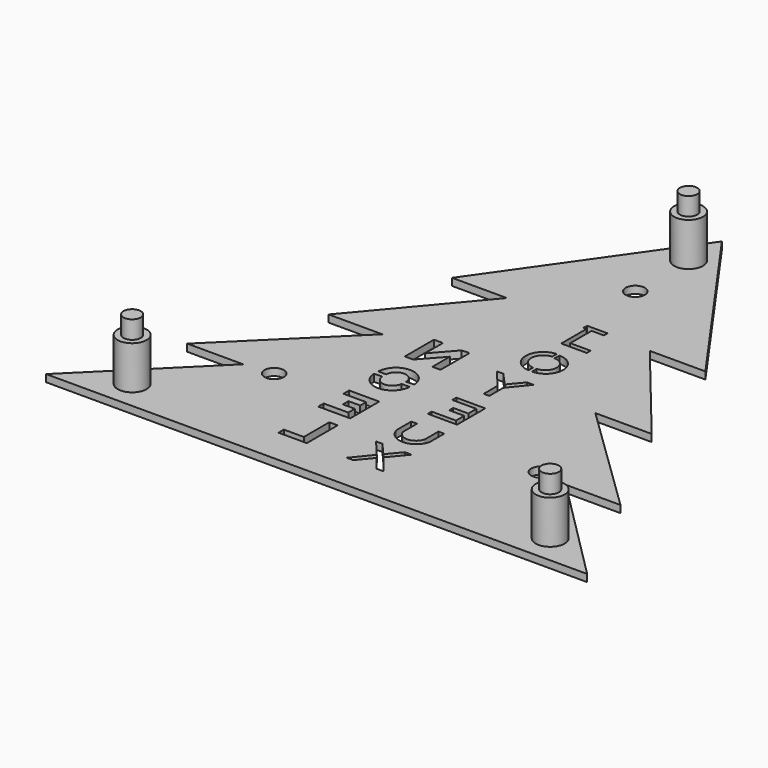
from build123d import *

# Parameters (mm, degrees)
CYLINDER006_R          = 2.4
CYLINDER006_DEPTH      = 7
CYLINDER004_R          = 4
CYLINDER004_DEPTH      = 12
CYLINDER007_R          = 2.4
CYLINDER007_DEPTH      = 7
CYLINDER005_R          = 4
CYLINDER005_DEPTH      = 12
CYLINDER_R             = 2.67
CYLINDER_DEPTH         = 2
CYLINDER001_R          = 2.67
CYLINDER001_DEPTH      = 2
CYLINDER002_R          = 2.67
CYLINDER002_DEPTH      = 2
PAD005_DEPTH           = 2
PAD006_DEPTH           = 2
PAD007_DEPTH           = 2
PAD008_DEPTH           = 2
PAD009_DEPTH           = 2
PAD010_DEPTH           = 2
PAD011_DEPTH           = 2
PAD013_DEPTH           = 2
PAD014_DEPTH           = 2
PAD015_DEPTH           = 2
PAD001_DEPTH           = 2
PAD004_DEPTH           = 2
PAD_DEPTH              = 2
CUT014_PLACEMENT_ANGLE = 180
CYLINDER003_R          = 4
CYLINDER003_DEPTH      = 12
CYLINDER008_R          = 2.4
CYLINDER008_DEPTH      = 7


with BuildPart() as cylindre006:
    # Cylinder006 → Cylinder006 (new body)
    with BuildSketch(Plane.XY.offset(10)):
        Circle(CYLINDER006_R)
    extrude(amount=CYLINDER006_DEPTH)


with BuildPart() as obj1:
    # Cylinder004 → Cylinder004 (new body)
    with BuildSketch(Plane.XY):
        Circle(CYLINDER004_R)
    extrude(amount=CYLINDER004_DEPTH)

    # Fusion001: union Cylindre006
    add(cylindre006.part)


with BuildPart() as obj1_1:
    # Fusion001 placement: moved
    add(obj1.part.moved(Location((58, -122, 0))))


with BuildPart() as cylindre007:
    # Cylinder007 → Cylinder007 (new body)
    with BuildSketch(Plane.XY.offset(10)):
        Circle(CYLINDER007_R)
    extrude(amount=CYLINDER007_DEPTH)


with BuildPart() as obj2:
    # Cylinder005 → Cylinder005 (new body)
    with BuildSketch(Plane.XY):
        Circle(CYLINDER005_R)
    extrude(amount=CYLINDER005_DEPTH)

    # Fusion002: union Cylindre007
    add(cylindre007.part)


with BuildPart() as obj2_1:
    # Fusion002 placement: moved
    add(obj2.part.moved(Location((0, -1.5, 0))))


with BuildPart() as obj3:
    # Cylinder → Cylinder (new body)
    with BuildSketch(Plane(origin=(0, -20, 0), x_dir=(1, 0, 0), z_dir=(0, 0, 1))):
        Circle(CYLINDER_R)
    extrude(amount=CYLINDER_DEPTH)


with BuildPart() as obj4:
    # Cylinder001 → Cylinder001 (new body)
    with BuildSketch(Plane(origin=(-37, -99, 0), x_dir=(1, 0, 0), z_dir=(0, 0, 1))):
        Circle(CYLINDER001_R)
    extrude(amount=CYLINDER001_DEPTH)


with BuildPart() as obj5:
    # Cylinder002 → Cylinder002 (new body)
    with BuildSketch(Plane(origin=(37, -99, 0), x_dir=(1, 0, 0), z_dir=(0, 0, 1))):
        Circle(CYLINDER002_R)
    extrude(amount=CYLINDER002_DEPTH)


with BuildPart() as pad005:
    # Sketch003 → Pad005 (new body)
    with BuildSketch(Plane(origin=(11, -73, 0), x_dir=(1, 0, 0), z_dir=(0, 0, 1))):
        with BuildLine():
            ThreePointArc((-16.037963, 9.653341), (-11.364469, 14.54891), (-16.07126, 19.412473))
            Line((-16.07126, 19.412473), (-16.07126, 17.849285))
            ThreePointArc((-16.099219, 11.213839), (-12.926154, 14.518251), (-16.07126, 17.849285))
            Line((-16.099219, 11.213839), (-16.037963, 9.653341))
        make_face()
    extrude(amount=PAD005_DEPTH)


with BuildPart() as pad006:
    # Sketch004 → Pad006 (new body)
    with BuildSketch(Plane(origin=(50, -28, 0), x_dir=(1, 0, 0), z_dir=(0, 0, 1))):
        Polygon((-60.172302, -40.014927), (-55.94516, -45.234154), (-55.94516, -50.065174), (-54.392334, -50.065174), (-54.392334, -45.234154), (-50.035789, -40.058064), (-51.804287, -40.014927), (-55.211884, -43.767593), (-58.360672, -40.014927), align=None)
    extrude(amount=PAD006_DEPTH)


with BuildPart() as pad007:
    # Sketch005 → Pad007 (new body)
    with BuildSketch(Plane(origin=(51, -113, 0), x_dir=(1, 0, 0), z_dir=(0, 0, 1))):
        Polygon((-59.924492, 29.827353), (-59.924492, 20.043087), (-51.799427, 20.043087), (-51.778122, 21.388154), (-58.539266, 21.388154), (-58.539266, 24.241791), (-54.392208, 24.241791), (-54.368668, 25.648745), (-58.563912, 25.648742), (-58.563912, 28.444752), (-51.871914, 28.444752), (-51.871914, 29.842251), align=None)
    extrude(amount=PAD007_DEPTH)


with BuildPart() as pad008:
    # Sketch006 → Pad008 (new body)
    with BuildSketch(Plane(origin=(40, -88, 0), x_dir=(1, 0, 0), z_dir=(0, 0, 1))):
        with BuildLine():
            ThreePointArc((-49.406039, -14.877108), (-44.91958, -18.684082), (-40.264656, -15.085049))
            Line((-40.264656, -10.039436), (-40.264656, -15.085049))
            Line((-41.877358, -10.014557), (-40.264656, -10.039436))
            Line((-41.877358, -14.88168), (-41.877358, -10.014557))
            ThreePointArc((-47.799763, -14.688175), (-44.913294, -17.072215), (-41.877358, -14.88168))
            Line((-47.799763, -10.014557), (-47.799763, -14.688175))
            Line((-49.406039, -10.014557), (-47.799763, -10.014557))
            Line((-49.406039, -14.877108), (-49.406039, -10.014557))
        make_face()
    extrude(amount=PAD008_DEPTH)


with BuildPart() as pad009:
    # Sketch007 → Pad009 (new body)
    with BuildSketch(Plane(origin=(40, -100, 0), x_dir=(1, 0, 0), z_dir=(0, 0, 1))):
        Polygon((-50.044407, -10.111172), (-48.184219, -10.111172), (-45.103821, -13.769145), (-41.913406, -10.083668), (-40.145214, -10.083668), (-44.168697, -14.869287), (-39.989098, -20.012453), (-41.77589, -20.012453), (-45.048813, -16.051941), (-48.266731, -20.012453), (-50.136971, -20.012453), (-46.03894, -14.924294), align=None)
    extrude(amount=PAD009_DEPTH)


with BuildPart() as pad010:
    # Sketch008 → Pad010 (new body)
    with BuildSketch(Plane(origin=(-50, -55, 0), x_dir=(1, 0, 0), z_dir=(0, 0, 1))):
        Polygon((59.944996, -10.081698), (59.944996, -20.096376), (62.215767, -20.096376), (62.215767, -14.04099), (67.572456, -20.038153), (69.901451, -20.038153), (69.901451, -9.965249), (67.397781, -9.965249), (67.397781, -16.195311), (62.099316, -10.139923), (60.294342, -10.023474), align=None)
    extrude(amount=PAD010_DEPTH)


with BuildPart() as pad011:
    # Sketch009 → Pad011 (new body)
    with BuildSketch(Plane(origin=(-50, -49, 0), x_dir=(1, 0, 0), z_dir=(0, 0, 1))):
        with BuildLine():
            ThreePointArc((69.990994, -35.138157), (65.066559, -30.24793), (60.081311, -35.076147))
            Line((60.081311, -35.076147), (62.25066, -35.155739))
            ThreePointArc((67.819598, -35.120229), (65.017788, -32.418467), (62.25066, -35.155739))
            Line((67.819598, -35.120229), (69.990994, -35.138157))
        make_face()
    extrude(amount=PAD011_DEPTH)


with BuildPart() as pad013:
    # Sketch010 → Pad013 (new body)
    with BuildSketch(Plane(origin=(-50, -50, 0), x_dir=(1, 0, 0), z_dir=(0, 0, 1))):
        with BuildLine():
            ThreePointArc((60.168351, -35.543583), (65.118967, -40.276993), (70.083354, -35.558027))
            Line((67.844375, -35.426405), (70.083354, -35.558027))
            ThreePointArc((62.41541, -35.543583), (65.184903, -38.033705), (67.844375, -35.426405))
            Line((60.168351, -35.543583), (62.41541, -35.543583))
        make_face()
    extrude(amount=PAD013_DEPTH)


with BuildPart() as pad014:
    # Sketch011 → Pad014 (new body)
    with BuildSketch(Plane(origin=(-49, -45, 0), x_dir=(1, 0, 0), z_dir=(0, 0, 1))):
        Polygon((60.004894, -50.040436), (60.004894, -60.12682), (68.854347, -60.12682), (68.854347, -58.239292), (62.037025, -58.239292), (62.037025, -55.989849), (65.320709, -55.989849), (65.320709, -54.042088), (62.078052, -54.042088), (62.078052, -52.009895), (68.356964, -52.009895), (68.356964, -50.040436), align=None)
    extrude(amount=PAD014_DEPTH)


with BuildPart() as pad015:
    # Sketch012 → Pad015 (new body)
    with BuildSketch(Plane(origin=(-59, -10, 0), x_dir=(1, 0, 0), z_dir=(0, 0, 1))):
        Polygon((70.077477, -99.382187), (70.077477, -110.073188), (77.927521, -110.073188), (77.927521, -108.204124), (72.395118, -108.204124), (72.395118, -99.382187), align=None)
    extrude(amount=PAD015_DEPTH)


with BuildPart() as pad001:
    # Sketch001 → Pad001 (new body)
    with BuildSketch(Plane(origin=(24, -79, 0), x_dir=(1, 0, 0), z_dir=(0, 0, 1))):
        Polygon((-31.011786, 39.876404), (-25.943949, 39.876404), (-25.943949, 38.661366), (-26.762781, 38.678547), (-26.762781, 29.865536), (-33.84618, 29.865536), (-33.84618, 31.212646), (-28.189131, 31.212646), (-28.189131, 38.604298), (-31.618616, 38.604298), (-31.618616, 39.928497), align=None)
    extrude(amount=PAD001_DEPTH)


with BuildPart() as pad004:
    # Sketch002 → Pad004 (new body)
    with BuildSketch(Plane(origin=(23, -75, 0), x_dir=(1, 0, 0), z_dir=(0, 0, 1))):
        with BuildLine():
            ThreePointArc((-29.06636, 21.208672), (-33.855078, 16.402926), (-29.050702, 11.612834))
            Line((-29.040989, 13.272719), (-29.050702, 11.612834))
            ThreePointArc((-28.975843, 19.558972), (-32.109932, 16.447987), (-29.040989, 13.272719))
            Line((-29.06636, 21.208672), (-28.975843, 19.558972))
        make_face()
    extrude(amount=PAD004_DEPTH)


with BuildPart() as cut014:
    # Sketch → Pad (new body)
    with BuildSketch(Plane(origin=(0, 0, 0), x_dir=(0, 1, 0), z_dir=(0, 0, 1))):
        Polygon((-130.055618, 74.700851), (-130.055618, -75.434654), (-99.793674, -44.971566), (-99.793674, -60.477265), (-69.960533, -30.215105), (-69.960533, -45.106522), (-39.827045, -19.776331), (-39.827045, -34.952637), (10.030094, 0.023063), (-39.838676, 35.327641), (-39.838676, 19.908756), (-70.002281, 44.561149), (-70.002281, 28.932402), (-100.276372, 60.120483), (-100.276372, 44.971665), align=None)
    extrude(amount=PAD_DEPTH)

    # Cut001: cut Pad004
    add(pad004.part, mode=Mode.SUBTRACT)

    # Cut: cut Pad001
    add(pad001.part, mode=Mode.SUBTRACT)

    # Cut002: cut Pad015
    add(pad015.part, mode=Mode.SUBTRACT)

    # Cut003: cut Pad014
    add(pad014.part, mode=Mode.SUBTRACT)

    # Cut004: cut Pad013
    add(pad013.part, mode=Mode.SUBTRACT)

    # Cut005: cut Pad011
    add(pad011.part, mode=Mode.SUBTRACT)

    # Cut006: cut Pad010
    add(pad010.part, mode=Mode.SUBTRACT)

    # Cut007: cut Pad009
    add(pad009.part, mode=Mode.SUBTRACT)

    # Cut008: cut Pad008
    add(pad008.part, mode=Mode.SUBTRACT)

    # Cut009: cut Pad007
    add(pad007.part, mode=Mode.SUBTRACT)

    # Cut010: cut Pad006
    add(pad006.part, mode=Mode.SUBTRACT)

    # Cut011: cut Pad005
    add(pad005.part, mode=Mode.SUBTRACT)

    # Cut012: cut obj5
    add(obj5.part, mode=Mode.SUBTRACT)

    # Cut013: cut obj4
    add(obj4.part, mode=Mode.SUBTRACT)

    # Cut014: cut obj3
    add(obj3.part, mode=Mode.SUBTRACT)


with BuildPart() as cut014_1:
    # Cut014 placement: moved
    add(cut014.part.rotate(Axis((0, 0, 0), (0, 1, 0)), CUT014_PLACEMENT_ANGLE))


with BuildPart() as cylindre003:
    # Cylinder003 → Cylinder003 (new body)
    with BuildSketch(Plane.XY):
        Circle(CYLINDER003_R)
    extrude(amount=CYLINDER003_DEPTH)


with BuildPart() as fusion005:
    # Cylinder008 → Cylinder008 (new body)
    with BuildSketch(Plane.XY.offset(10)):
        Circle(CYLINDER008_R)
    extrude(amount=CYLINDER008_DEPTH)

    # Fusion: union Cylindre003
    add(cylindre003.part)


with BuildPart() as fusion005_1:
    # Fusion placement: moved
    add(fusion005.part.moved(Location((-58, -122, 0))))

    # Fusion003: union Cut014
    add(cut014_1.part)

    # Fusion004: union obj2
    add(obj2_1.part)

    # Fusion005: union obj1
    add(obj1_1.part)


solid = fusion005_1.part
